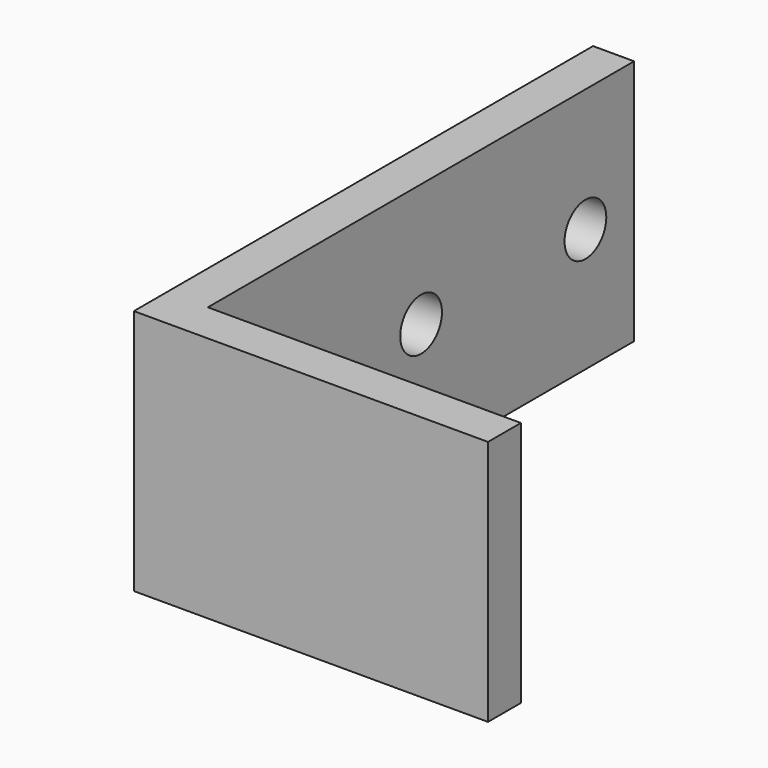
from build123d import *

# Parameters (mm, degrees)
F0_W     = 38.1
F0_H     = 5
F1_DEPTH = 30
F2_R     = 3.175
F3_DEPTH = 25.4


with BuildPart() as f1:
    # F0 (on Top) → F1 (new body)
    with BuildSketch(Plane.XY):
        Polygon((-2.5, -34.925), (2.5, -34.925), (2.5, -29.925), (2.5, 34.925), (-2.5, 34.925), align=None)
        with Locations((21.55, -32.425)):
            Rectangle(F0_W, F0_H)
    extrude(amount=F1_DEPTH)

    # F2 (on face) → F3 (cut)
    with BuildSketch(Plane.YZ.offset(2.5)):
        with Locations((-22.4828, 15)):
            Circle(F2_R)
        with Locations((2.5172, 15)):
            Circle(F2_R)
        with Locations((27.5172, 15)):
            Circle(F2_R)
    extrude(amount=-F3_DEPTH, mode=Mode.SUBTRACT)


solid = f1.part
